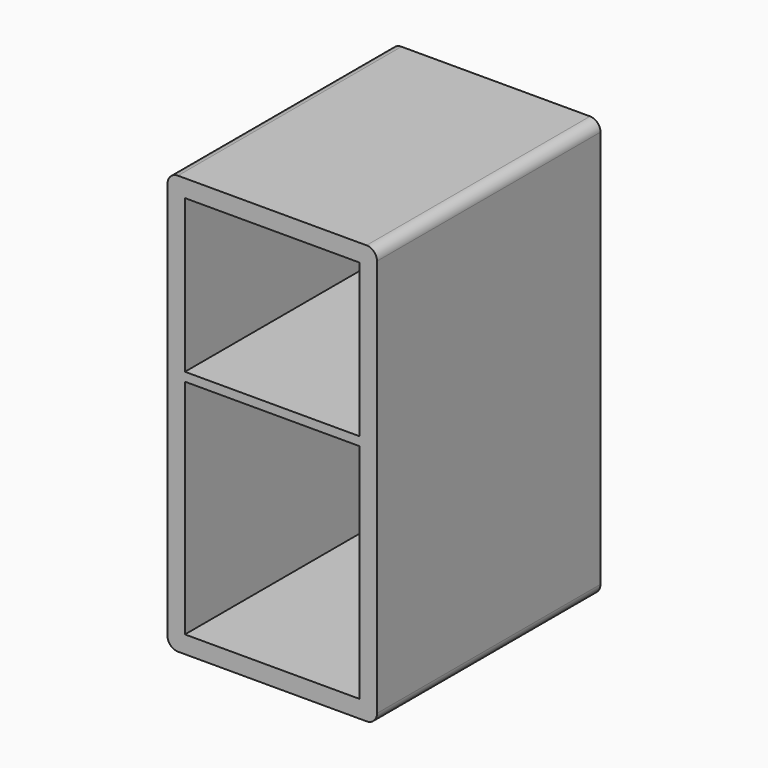
from build123d import *

# Parameters (mm, degrees)
F1_DEPTH = 101.6
F2_T     = -6.35
F3_W     = 63.5
F3_H     = 3.175
F4_DEPTH = 95.25


with BuildPart() as f1:
    # F0 (on Front) → F1 (new body)
    with BuildSketch(Plane.XZ):
        with BuildLine():
            Line((34.29, 76.2), (-34.29, 76.2))
            ThreePointArc((-34.29, 76.2), (-36.984077, 75.084077), (-38.1, 72.39))
            Line((-38.1, 72.39), (-38.1, -72.39))
            ThreePointArc((-38.1, -72.39), (-36.984077, -75.084077), (-34.29, -76.2))
            Line((-34.29, -76.2), (34.29, -76.2))
            ThreePointArc((34.29, -76.2), (36.984077, -75.084077), (38.1, -72.39))
            Line((38.1, -72.39), (38.1, 72.39))
            ThreePointArc((38.1, 72.39), (36.984077, 75.084077), (34.29, 76.2))
        make_face()
    extrude(amount=F1_DEPTH)

    # F2
    f2_openings = [f1.faces().sort_by_distance(p)[0] for p in [
        (0, -101.6, 0),
    ]]
    offset(amount=F2_T, openings=f2_openings)

    # F3 (on face) → F4 (join)
    with BuildSketch(Plane.XZ.offset(6.35)):
        with Locations((0, 12.657333)):
            Rectangle(F3_W, F3_H)
        with Locations((0, 12.657333)):
            Rectangle(F3_W, F3_H)
    extrude(amount=F4_DEPTH)


solid = f1.part
